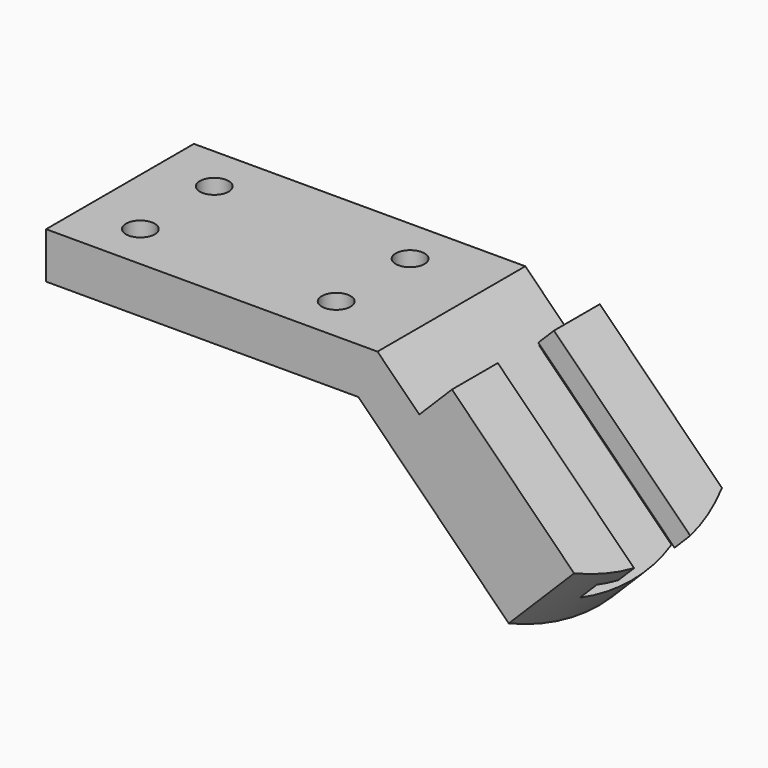
from build123d import *

# Parameters (mm, degrees)
F1_DEPTH = 50.8
F3_DEPTH = 25.4
F5_DEPTH = 66.549
F6_R     = 3.9624
F7_DEPTH = 12.701
F6_R_2   = 6.35
F8_DEPTH = 6.096


with BuildPart() as f1:
    # F0 (on Front) → F1 (new body)
    with BuildSketch(Plane.XZ):
        Polygon((0, 12.7), (0, 0), (85.852, 0), (131.70327, -45.85127), (149.663782, -27.890758), (111.587496, 10.185528), (102.60724, 1.205272), (91.112512, 12.7), align=None)
    extrude(amount=F1_DEPTH)

    # F2 (on face) → F3 (cut)
    with BuildSketch(Plane(origin=(60.886512, 0, 60.886512), x_dir=(0.707107, 0, -0.707107), z_dir=(0.707107, 0, 0.707107))):
        with BuildLine():
            Line((125.550019, -50.8), (125.550019, -25.4))
            ThreePointArc((125.550019, -25.4), (123.934026, -38.492922), (119.183037, -50.8))
            Line((119.183037, -50.8), (125.550019, -50.8))
        make_face()
        with BuildLine():
            Line((125.550019, -25.4), (125.550019, 0))
            Line((125.550019, 0), (119.183037, 0))
            ThreePointArc((119.183037, 0), (123.934026, -12.307078), (125.550019, -25.4))
        make_face()
    extrude(amount=-F3_DEPTH, mode=Mode.SUBTRACT)

    # F4 (on face) → F5 (cut, through all)
    with BuildSketch(Plane(origin=(50.700984, 0, -50.700984), x_dir=(0, -1, 0), z_dir=(-0.707107, 0, 0.707107))):
        Polygon((41.148, 80.010531), (35.052, 80.010531), (35.052, 86.106531), (15.748, 86.106531), (15.748, 80.010531), (9.652, 80.010531), (9.652, 73.406531), (41.148, 73.406531), align=None)
    extrude(amount=-F5_DEPTH, mode=Mode.SUBTRACT)

    # F6 (on face) → F7 (cut, through all)
    with BuildSketch(Plane(origin=(0, 0, 0), x_dir=(1, 0, 0), z_dir=(0, 0, -1))):
        with Locations((15.748, 12.7)):
            Circle(F6_R)
        with Locations((15.748, 38.1)):
            Circle(F6_R)
        with Locations((69.596, 38.1)):
            Circle(F6_R)
        with Locations((69.596, 12.7)):
            Circle(F6_R)
    extrude(amount=-F7_DEPTH, mode=Mode.SUBTRACT)

    # F6 (on face) → F8 (cut)
    with BuildSketch(Plane(origin=(0, 0, 0), x_dir=(1, 0, 0), z_dir=(0, 0, -1))):
        with Locations((15.748, 12.7)):
            Circle(F6_R_2)
        with Locations((15.748, 12.7)):
            Circle(F6_R, mode=Mode.SUBTRACT)
        with Locations((15.748, 38.1)):
            Circle(F6_R_2)
        with Locations((15.748, 38.1)):
            Circle(F6_R, mode=Mode.SUBTRACT)
        with Locations((69.596, 12.7)):
            Circle(F6_R_2)
        with Locations((69.596, 12.7)):
            Circle(F6_R, mode=Mode.SUBTRACT)
        with Locations((69.596, 38.1)):
            Circle(F6_R_2)
        with Locations((69.596, 38.1)):
            Circle(F6_R, mode=Mode.SUBTRACT)
    extrude(amount=-F8_DEPTH, mode=Mode.SUBTRACT)


solid = f1.part
